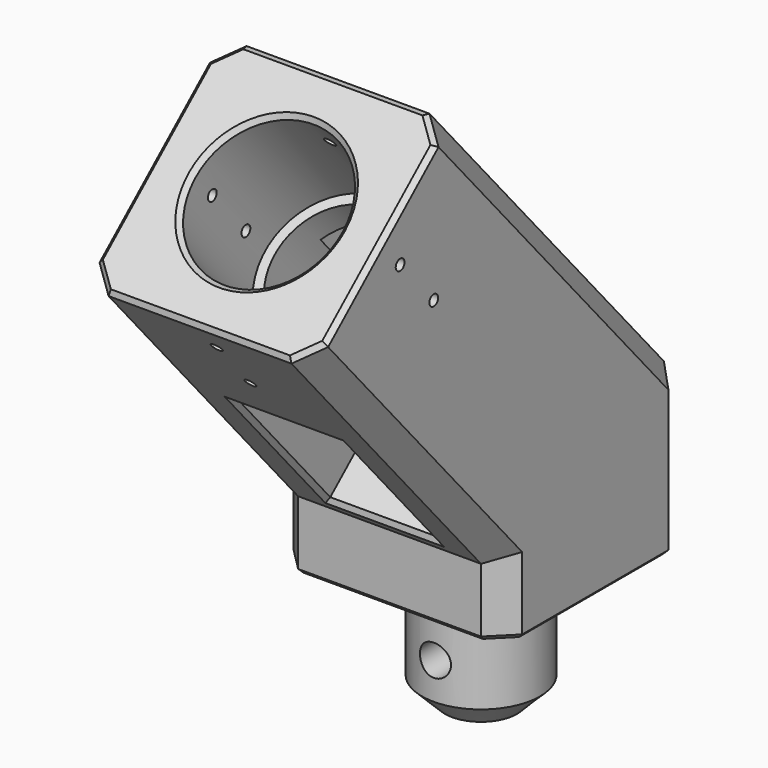
from build123d import *

# Parameters (mm, degrees)
F0_W      = 50
F0_H      = 50
F1_DEPTH  = 15
F2_R      = 12.9
F3_DEPTH  = 28
F4_R      = 3.4
F5_DEPTH  = 21
F7_DEPTH  = 50
F8_R      = 14
F9_DEPTH  = 77
F10_R     = 16.1
F11_DEPTH = 30
F12_W     = 24
F12_H     = 40
F13_DEPTH = 117.8222610619
F14_R     = 1.2
F15_DEPTH = 117.8222610619
F16_R     = 1.2
F17_DEPTH = 50.001
F18_SIZE  = 5
F19_SIZE  = 1


with BuildPart() as f1:
    # F0 (on Top) → F1 (new body)
    with BuildSketch(Plane.XY):
        Rectangle(F0_W, F0_H)
    extrude(amount=F1_DEPTH)

    # F2 (on face) → F3 (join)
    with BuildSketch(Plane(origin=(0, 0, 0), x_dir=(1, 0, 0), z_dir=(0, 0, -1))):
        Circle(F2_R)
    extrude(amount=F3_DEPTH)

    # F4 (on Front) → F5 (cut, symmetric)
    with BuildSketch(Plane.XZ):
        with Locations((0, -15)):
            Circle(F4_R)
    extrude(amount=F5_DEPTH, both=True, mode=Mode.SUBTRACT)

    # F6 (on face) → F7 (join)
    with BuildSketch(Plane.YZ.offset(25)):
        Polygon((-77.4847223192, 75.3767664178), (-25, 15), (25, 15), (25, 33.6942339742), (-39.7492433081, 108.1797178673), align=None)
    extrude(amount=-F7_DEPTH)

    # F8 (on face) → F9 (cut)
    with BuildSketch(Plane(origin=(0, -70.6720690728, 81.2989155343), x_dir=(1, 0, 0), z_dir=(0, -0.656059029, 0.7547095802))):
        with Locations((0, 15.9731459293)):
            Circle(F8_R)
    extrude(amount=-F9_DEPTH, mode=Mode.SUBTRACT)

    # F10 (on face) → F11 (cut)
    with BuildSketch(Plane(origin=(0, -70.6720690728, 81.2989155343), x_dir=(1, 0, 0), z_dir=(0, -0.656059029, 0.7547095802))):
        with Locations((0, 15.9731459293)):
            Circle(F10_R)
    extrude(amount=-F11_DEPTH, mode=Mode.SUBTRACT)

    # F12 (on face) → F13 (cut, through all)
    with BuildSketch(Plane(origin=(0, 30.9228257647, 26.8808023331), x_dir=(-1, 0, 0), z_dir=(0, 0.7547095802, 0.656059029))):
        with Locations((0, 50.7221194281)):
            Rectangle(F12_W, F12_H)
    extrude(amount=-F13_DEPTH, mode=Mode.SUBTRACT)

    # F14 (on face) → F15 (cut, through all)
    with BuildSketch(Plane(origin=(0, 30.9228257647, 26.8808023331), x_dir=(-1, 0, 0), z_dir=(0, 0.7547095802, 0.656059029))):
        with Locations((0, 99.7221194281)):
            Circle(F14_R)
        with Locations((0, 85.7221194281)):
            Circle(F14_R)
    extrude(amount=-F15_DEPTH, mode=Mode.SUBTRACT)

    # F16 (on face) → F17 (cut, through all)
    with BuildSketch(Plane.YZ.offset(25)):
        with Locations((-53.3685105817, 85.7405655008)):
            Circle(F16_R)
        with Locations((-44.1836841759, 75.1746313777)):
            Circle(F16_R)
    extrude(amount=-F17_DEPTH, mode=Mode.SUBTRACT)

    # F18
    f18_edges = [f1.edges().sort_by_distance(p)[0] for p in [
        (-12.9, 0, -28),
        (25, -51.242361, 45.188383),
        (25, -25, 7.5),
        (25, 25, 16.847117),
        (25, -7.374622, 70.936976),
        (-25, 25, 16.847117),
        (-25, -7.374622, 70.936976),
        (-25, -25, 7.5),
        (-25, -51.242361, 45.188383),
    ]]
    chamfer(f18_edges, length=F18_SIZE)

    # F19
    f19_edges = [f1.edges().sort_by_distance(p)[0] for p in [
        (-16.1, -58.616983, 91.778242),
        (12, -40.089358, 32.35832),
        (0, -53.210538, 47.452512),
        (-12, -40.089358, 32.35832),
        (0, -26.968177, 17.264129),
        (0, 10.767302, 50.06708),
        (-12, -2.353879, 65.161272),
        (12, -2.353879, 65.161272),
        (0, -15.475059, 80.255463),
        (-25, 0, 0),
        (-22.5, -22.5, 0),
        (0, -25, 0),
        (22.5, -22.5, 0),
        (25, 0, 0),
        (22.5, 22.5, 0),
        (0, 25, 0),
        (-22.5, 22.5, 0),
        (0, -77.484722, 75.376766),
        (-22.5, -75.597948, 77.016914),
        (-25, -58.616983, 91.778242),
        (25, -58.616983, 91.778242),
        (22.5, -75.597948, 77.016914),
        (22.5, -41.636017, 106.53957),
        (0, -39.749243, 108.179718),
        (-22.5, -41.636017, 106.53957),
    ]]
    chamfer(f19_edges, length=F19_SIZE)


solid = f1.part
